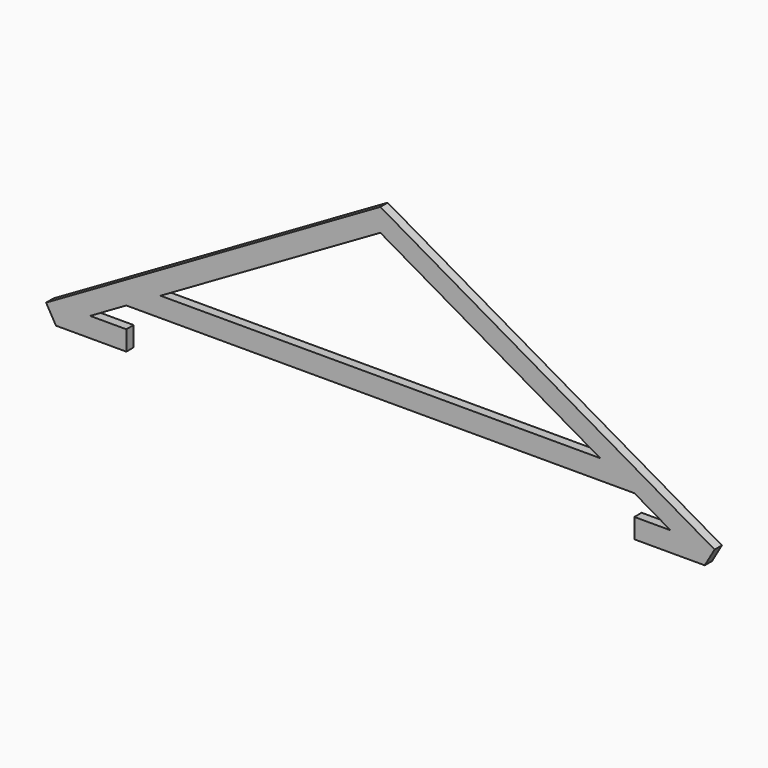
from build123d import *

# Parameters (mm, degrees)
F1_DEPTH = 45


with BuildPart() as f1:
    # F0 (on Front) → F1 (new body)
    with BuildSketch(Plane.XZ):
        Polygon((0, 721.687836), (0, 833.693789), (-1644.910162, -115.995536), (-1596.410162, -200), (-1428.401233, -103), (-1250, 0), (-1081.991072, 97), align=None)
        Polygon((1596.410162, -200), (1644.910162, -115.995536), (0, 833.693789), (0, 721.687836), (1081.991072, 97), (1250, 0), (1428.401233, -103), align=None)
        Polygon((1250, 0), (1081.991072, 97), (0, 97), (0, 0), (1153, 0), align=None)
        Polygon((0, 721.687836), (0, 833.693789), (-1644.910162, -115.995536), (-1596.410162, -200), (-1428.401233, -103), (-1250, 0), (-1081.991072, 97), align=None)
        Polygon((0, 97), (-1081.991072, 97), (-1250, 0), (-1153, 0), (0, 0), align=None)
        Polygon((-1428.401233, -103), (-1596.410162, -200), (-1250, -200), (-1250, -103), align=None)
        Polygon((1250, -200), (1596.410162, -200), (1428.401233, -103), (1250, -103), align=None)
    extrude(amount=F1_DEPTH)


solid = f1.part
